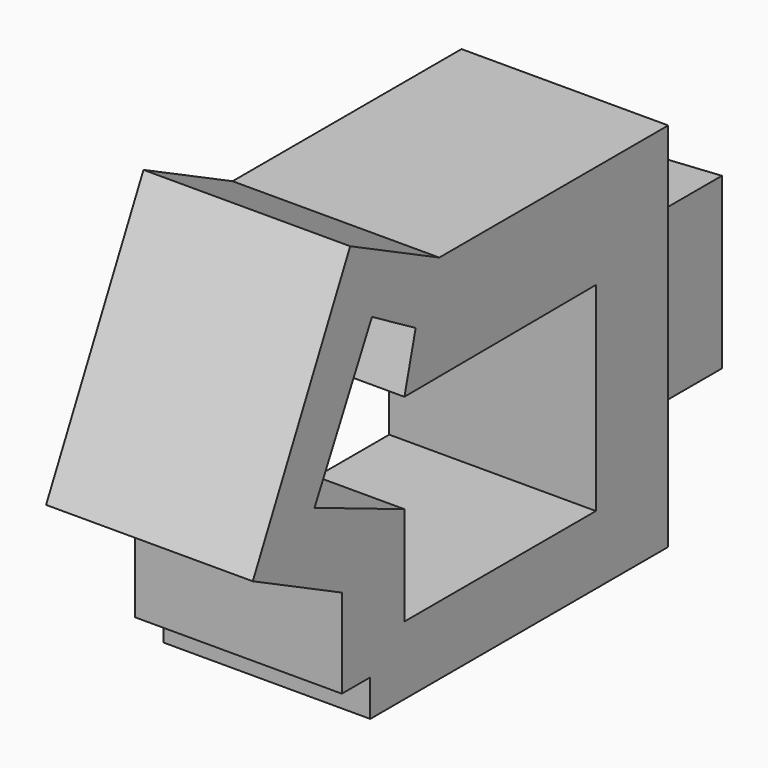
from build123d import *

# Parameters (mm, degrees)
F1_DEPTH  = 38.862
F2_DEPTH  = 23.622
F3_DEPTH  = 23.368
F5_DEPTH  = 79.248
F7_DEPTH  = 75.692
F8_W      = 6.6682146308
F8_H      = 6.8875169381
F9_DEPTH  = 99.314
F11_DEPTH = 23.622


with BuildPart() as f1:
    # F0 (on Right) → F1 (new body)
    with BuildSketch(Plane.YZ):
        Polygon((31.3382074237, 23.87672849), (-22.4620722006, 23.87672849), (-45.3531080303, -22.2696410492), (31.3382074237, -22.2696410492), align=None)
    extrude(amount=F1_DEPTH)

    # F2 (add): faces of the model
    f2_faces = [f1.faces().sort_by_distance(p)[0] for p in [
        (19.431, 4.4380676116, 23.87672849),
        (19.431, -33.9075901154, 0.8035437204),
    ]]
    extrude(f2_faces, amount=F2_DEPTH, dir=(0, 0, 1))

    # F3 (add): a face of the model
    f3_faces = [f1.faces().sort_by_distance(p)[0] for p in [
        (19.431, -33.9075901154, 24.4255437204),
    ]]
    extrude(f3_faces, amount=F3_DEPTH)

    # F4 (on face) → F5 (cut)
    with BuildSketch(Plane.YZ.offset(38.862)):
        Polygon((14.3489968032, 28.0092395842), (-30.6494552642, 27.779655531), (-30.6494552642, -9.4129415229), (14.3489968032, -9.4129415229), align=None)
    extrude(amount=-F5_DEPTH, mode=Mode.SUBTRACT)

    # F6 (on face) → F7 (cut)
    with BuildSketch(Plane.YZ.offset(38.862)):
        Polygon((-28.0031748116, 38.1083898246), (-38.2806286216, 44.1071428359), (-51.7797023058, 17.9995857179), (-30.6494552642, 9.1833570041), (-30.6494552642, 27.779655531), align=None)
    extrude(amount=-F7_DEPTH, mode=Mode.SUBTRACT)

    # F8 (on face) → F9 (cut)
    with BuildSketch(Plane.YZ.offset(38.862)):
        with Locations((-42.0190007149, -18.8258825801)):
            Rectangle(F8_W, F8_H)
    extrude(amount=-F9_DEPTH, mode=Mode.SUBTRACT)

    # F10 (on face) → F11 (join)
    with BuildSketch(Plane(origin=(0, 31.3382074237, 0), x_dir=(-1, 0, 0), z_dir=(0, 1, 0))):
        Polygon((-12.3405372724, 25.5852285773), (-30.064733699, 26.704614982), (-30.064733699, -5.189940799), (-12.3405372724, -5.189940799), align=None)
    extrude(amount=F11_DEPTH)


solid = f1.part
